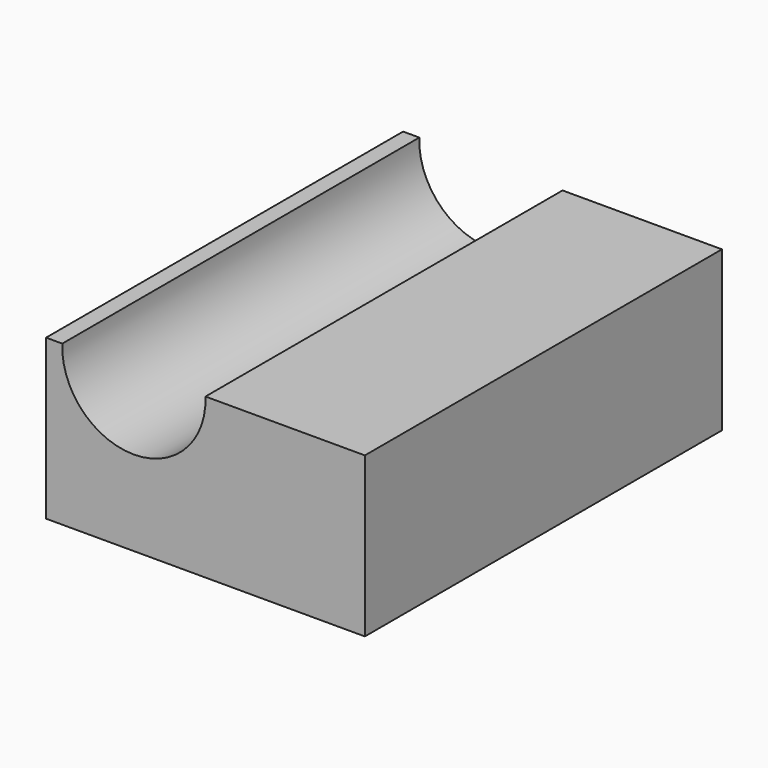
from build123d import *

# Parameters (mm, degrees)
F1_DEPTH = 140


with BuildPart() as f1:
    # F0 (on Front) → F1 (new body)
    with BuildSketch(Plane.XZ):
        with BuildLine():
            Line((-45.2721789479, 24.5866943151), (-50.3528229892, 24.5866943151))
            Line((-50.3528229892, 24.5866943151), (-50.3528229892, -25.4133056849))
            Line((-50.3528229892, -25.4133056849), (49.6471770108, -25.4133056849))
            Line((49.6471770108, -25.4133056849), (49.6471770108, 24.5866943151))
            Line((49.6471770108, 24.5866943151), (-0.3528229892, 24.5866943151))
            ThreePointArc((-0.3528229892, 24.5866943151), (-22.8125009686, 1.2563503091), (-45.2721789479, 24.5866943151))
        make_face()
    extrude(amount=-F1_DEPTH)


solid = f1.part
